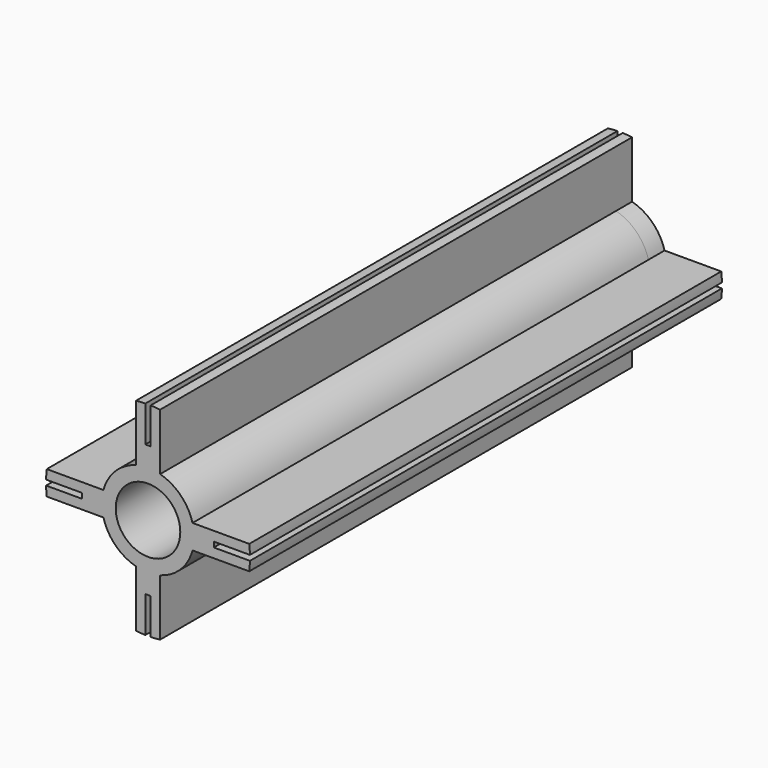
from build123d import *

# Parameters (mm, degrees)
F0_R     = 10.213304
F1_DEPTH = 186.67
F2_DEPTH = 6.35


with BuildPart() as f1:
    # F0 (on Front) → F1 (new body)
    with BuildSketch(Plane.XZ):
        with BuildLine():
            ThreePointArc((-14.08991, -3.8255), (-14.6, 0), (-14.08991, 3.8255))
            Line((-14.08991, 3.8255), (-20.828, 3.8255))
            Line((-20.828, 3.8255), (-20.828, 0.8255))
            Line((-20.828, 0.8255), (-20.828, 0))
            Line((-20.828, 0), (-20.828, -0.8255))
            Line((-20.828, -0.8255), (-20.828, -3.8255))
            Line((-20.828, -3.8255), (-14.08991, -3.8255))
        make_face()
        with BuildLine():
            Line((-20.828, 3.8255), (-32.030362, 3.8255))
            ThreePointArc((-32.030362, 3.8255), (-32.173884, 2.328031), (-32.247436, 0.8255))
            Line((-32.247436, 0.8255), (-20.828, 0.8255))
            Line((-20.828, 0.8255), (-20.828, 3.8255))
        make_face()
        with BuildLine():
            ThreePointArc((-32.247436, -0.8255), (-32.173884, -2.328031), (-32.030362, -3.8255))
            Line((-32.030362, -3.8255), (-20.828, -3.8255))
            Line((-20.828, -3.8255), (-20.828, -0.8255))
            Line((-20.828, -0.8255), (-32.247436, -0.8255))
        make_face()
        with BuildLine():
            ThreePointArc((14.6, 0), (14.471916, 1.929679), (14.08991, 3.8255))
            ThreePointArc((14.08991, 3.8255), (10.323759, 10.323759), (3.8255, 14.08991))
            ThreePointArc((3.8255, 14.08991), (0, 14.6), (-3.8255, 14.08991))
            ThreePointArc((-3.8255, 14.08991), (-10.323759, 10.323759), (-14.08991, 3.8255))
            ThreePointArc((-14.08991, 3.8255), (-14.6, 0), (-14.08991, -3.8255))
            ThreePointArc((-14.08991, -3.8255), (-10.323759, -10.323759), (-3.8255, -14.08991))
            ThreePointArc((-3.8255, -14.08991), (0, -14.6), (3.8255, -14.08991))
            ThreePointArc((3.8255, -14.08991), (10.323759, -10.323759), (14.08991, -3.8255))
            ThreePointArc((14.08991, -3.8255), (14.471916, -1.929679), (14.6, 0))
        make_face()
        Circle(F0_R, mode=Mode.SUBTRACT)
        with BuildLine():
            Line((0.8255, -20.828), (3.8255, -20.828))
            Line((3.8255, -20.828), (3.8255, -14.08991))
            ThreePointArc((3.8255, -14.08991), (0, -14.6), (-3.8255, -14.08991))
            Line((-3.8255, -14.08991), (-3.8255, -20.828))
            Line((-3.8255, -20.828), (-0.8255, -20.828))
            Line((-0.8255, -20.828), (0, -20.828))
            Line((0, -20.828), (0.8255, -20.828))
        make_face()
        with BuildLine():
            ThreePointArc((-3.8255, -32.030362), (-2.328031, -32.173884), (-0.8255, -32.247436))
            Line((-0.8255, -32.247436), (-0.8255, -20.828))
            Line((-0.8255, -20.828), (-3.8255, -20.828))
            Line((-3.8255, -20.828), (-3.8255, -32.030362))
        make_face()
        with BuildLine():
            ThreePointArc((0.8255, -32.247436), (2.328031, -32.173884), (3.8255, -32.030362))
            Line((3.8255, -32.030362), (3.8255, -20.828))
            Line((3.8255, -20.828), (0.8255, -20.828))
            Line((0.8255, -20.828), (0.8255, -32.247436))
        make_face()
        with BuildLine():
            Line((20.828, 0), (20.828, 0.8255))
            Line((20.828, 0.8255), (20.828, 3.8255))
            Line((20.828, 3.8255), (14.08991, 3.8255))
            ThreePointArc((14.08991, 3.8255), (14.471916, 1.929679), (14.6, 0))
            ThreePointArc((14.6, 0), (14.471916, -1.929679), (14.08991, -3.8255))
            Line((14.08991, -3.8255), (20.828, -3.8255))
            Line((20.828, -3.8255), (20.828, -0.8255))
            Line((20.828, -0.8255), (20.828, 0))
        make_face()
        with BuildLine():
            Line((20.828, 0.8255), (32.247436, 0.8255))
            ThreePointArc((32.247436, 0.8255), (32.173884, 2.328031), (32.030362, 3.8255))
            Line((32.030362, 3.8255), (20.828, 3.8255))
            Line((20.828, 3.8255), (20.828, 0.8255))
        make_face()
        with BuildLine():
            ThreePointArc((32.030362, -3.8255), (32.173884, -2.328031), (32.247436, -0.8255))
            Line((32.247436, -0.8255), (20.828, -0.8255))
            Line((20.828, -0.8255), (20.828, -3.8255))
            Line((20.828, -3.8255), (32.030362, -3.8255))
        make_face()
        with BuildLine():
            Line((3.8255, 14.08991), (3.8255, 20.828))
            Line((3.8255, 20.828), (0.8255, 20.828))
            Line((0.8255, 20.828), (0, 20.828))
            Line((0, 20.828), (-0.8255, 20.828))
            Line((-0.8255, 20.828), (-3.8255, 20.828))
            Line((-3.8255, 20.828), (-3.8255, 14.08991))
            ThreePointArc((-3.8255, 14.08991), (0, 14.6), (3.8255, 14.08991))
        make_face()
        with BuildLine():
            Line((-0.8255, 20.828), (-0.8255, 32.247436))
            ThreePointArc((-0.8255, 32.247436), (-2.328031, 32.173884), (-3.8255, 32.030362))
            Line((-3.8255, 32.030362), (-3.8255, 20.828))
            Line((-3.8255, 20.828), (-0.8255, 20.828))
        make_face()
        with BuildLine():
            Line((3.8255, 20.828), (3.8255, 32.030362))
            ThreePointArc((3.8255, 32.030362), (2.328031, 32.173884), (0.8255, 32.247436))
            Line((0.8255, 32.247436), (0.8255, 20.828))
            Line((0.8255, 20.828), (3.8255, 20.828))
        make_face()
    extrude(amount=F1_DEPTH)


with BuildPart() as f2:
    # F0 (on Front) → F2 (new body)
    with BuildSketch(Plane.XZ):
        with BuildLine():
            ThreePointArc((14.6, 0), (14.471916, 1.929679), (14.08991, 3.8255))
            ThreePointArc((14.08991, 3.8255), (10.323759, 10.323759), (3.8255, 14.08991))
            ThreePointArc((3.8255, 14.08991), (0, 14.6), (-3.8255, 14.08991))
            ThreePointArc((-3.8255, 14.08991), (-10.323759, 10.323759), (-14.08991, 3.8255))
            ThreePointArc((-14.08991, 3.8255), (-14.6, 0), (-14.08991, -3.8255))
            ThreePointArc((-14.08991, -3.8255), (-10.323759, -10.323759), (-3.8255, -14.08991))
            ThreePointArc((-3.8255, -14.08991), (0, -14.6), (3.8255, -14.08991))
            ThreePointArc((3.8255, -14.08991), (10.323759, -10.323759), (14.08991, -3.8255))
            ThreePointArc((14.08991, -3.8255), (14.471916, -1.929679), (14.6, 0))
        make_face()
        Circle(F0_R, mode=Mode.SUBTRACT)
    extrude(amount=F2_DEPTH)


solid = Compound([f1.part, f2.part])
